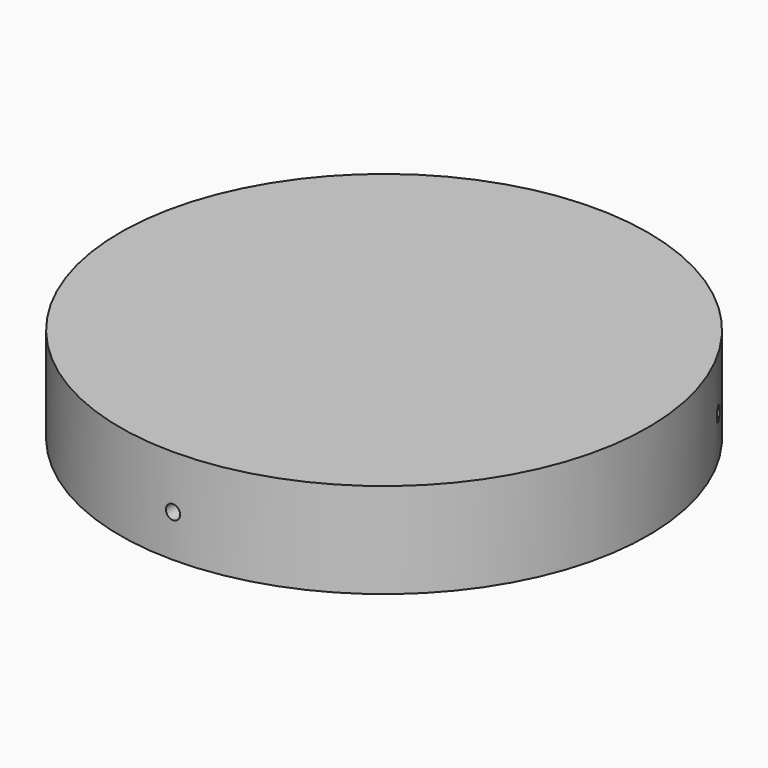
from build123d import *

# Parameters (mm, degrees)
F7_R      = 1.5
F10_DEPTH = 17.530616906
F8_R      = 1.5
F11_DEPTH = 17.530616906
F9_R      = 1.5
F12_DEPTH = 17.5306169047


with BuildPart() as f1:
    # F0 (on Right) → F1 (revolve)
    with BuildSketch(Plane.YZ):
        Polygon((-55.5, 0), (-45.5, 0), (-45.5, 2.1), (-38, 5), (-38, 12.7), (0, 12.7), (0, 20), (-55.5, 20), align=None)
    revolve(axis=Axis((0, 0, -2.8341766447), (0, 0, -1)))

    # F7 (on line) → F10 (cut, through all)
    with BuildSketch(Plane(origin=(48.06440991, 27.75, 0), x_dir=(-0.5, 0.8660254038, 0), z_dir=(0.8660254038, 0.5, 0))):
        with Locations((0, 8.85)):
            Circle(F7_R)
    extrude(amount=-F10_DEPTH, mode=Mode.SUBTRACT)

    # F8 (on line) → F11 (cut, through all)
    with BuildSketch(Plane(origin=(-48.06440991, 27.75, 0), x_dir=(-0.5, -0.8660254038, 0), z_dir=(-0.8660254038, 0.5, 0))):
        with Locations((0, 8.85)):
            Circle(F8_R)
    extrude(amount=-F11_DEPTH, mode=Mode.SUBTRACT)

    # F9 (on line) → F12 (cut, through all)
    with BuildSketch(Plane.XZ.offset(55.5)):
        with Locations((0, 8.85)):
            Circle(F9_R)
    extrude(amount=-F12_DEPTH, mode=Mode.SUBTRACT)


solid = f1.part
